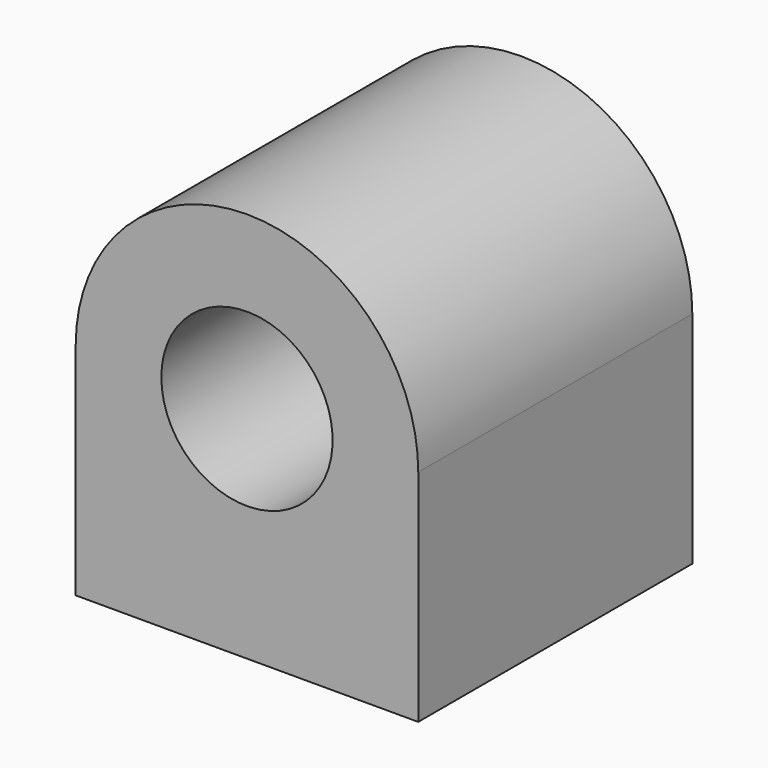
from build123d import *

# Parameters (mm, degrees)
F1_DEPTH = 12.7


with BuildPart() as f1:
    # F0 (on Front) → F1 (new body)
    with BuildSketch(Plane.XZ):
        with BuildLine():
            Line((0, 8.153695), (0, 0))
            Line((0, 0), (12.7, 0))
            Line((12.7, 0), (12.7, 8.153695))
            Line((12.7, 8.153695), (9.525, 8.153695))
            ThreePointArc((9.525, 8.153695), (6.35, 4.978695), (3.175, 8.153695))
            Line((3.175, 8.153695), (0, 8.153695))
        make_face()
        with BuildLine():
            ThreePointArc((12.7, 8.153695), (6.35, 14.503695), (0, 8.153695))
            Line((0, 8.153695), (3.175, 8.153695))
            ThreePointArc((3.175, 8.153695), (6.35, 11.328695), (9.525, 8.153695))
            Line((9.525, 8.153695), (12.7, 8.153695))
        make_face()
    extrude(amount=F1_DEPTH)


solid = f1.part
